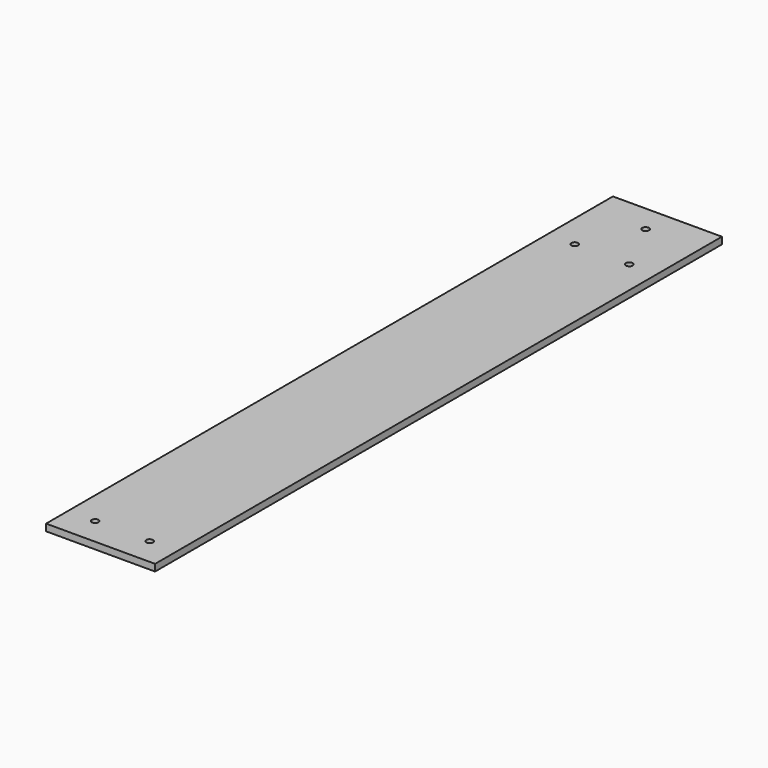
from build123d import *

# Parameters (mm, degrees)
F0_W     = 50.8
F0_H     = 330.2
F1_DEPTH = 3.175
F3_D     = 3.175


with BuildPart() as f1:
    # F0 (on Top) → F1 (new body)
    with BuildSketch(Plane.XY):
        with Locations((25.4, 165.1)):
            Rectangle(F0_W, F0_H)
    extrude(amount=F1_DEPTH)

    # F3 (through all)
    with Locations(Plane.XY.offset(3.175)):
        with Locations((12.7, 292.1), (25.4, 317.5), (38.1, 292.1), (12.7, 12.7), (38.1, 12.7)):
            Hole(F3_D / 2)


solid = f1.part
